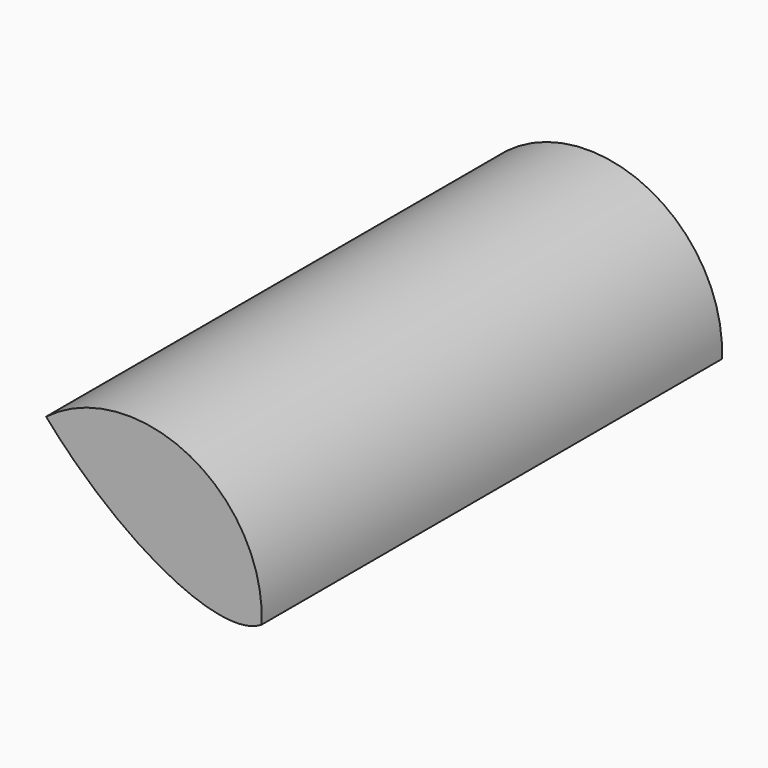
from build123d import *

# Parameters (mm, degrees)
F0_R     = 35
F1_DEPTH = 150.01574
F3_DEPTH = 159.103371


with BuildPart() as f1:
    # F0 (on Front) → F1 (new body)
    with BuildSketch(Plane.XZ):
        Circle(F0_R)
    extrude(amount=F1_DEPTH)

    # F2 (on Front) → F3 (intersect)
    with BuildSketch(Plane.XZ):
        with BuildLine():
            add(Edge.make_bspline(
                [(36.390275, -0.489652), (61.186254, 24.86967), (-5.797148, 65.562839), (-72.78055, 106.256008), (-30.593127, 40.203517), (11.594295, -25.848974), (36.390275, -0.489652)],
                knots=[0, 0, 0, 2.094395, 2.094395, 4.18879, 4.18879, 6.283185, 6.283185, 6.283185], degree=2, weights=[1, 0.5, 1, 0.5, 1, 0.5, 1]))
        make_face()
    extrude(amount=F3_DEPTH, mode=Mode.INTERSECT)


solid = f1.part
